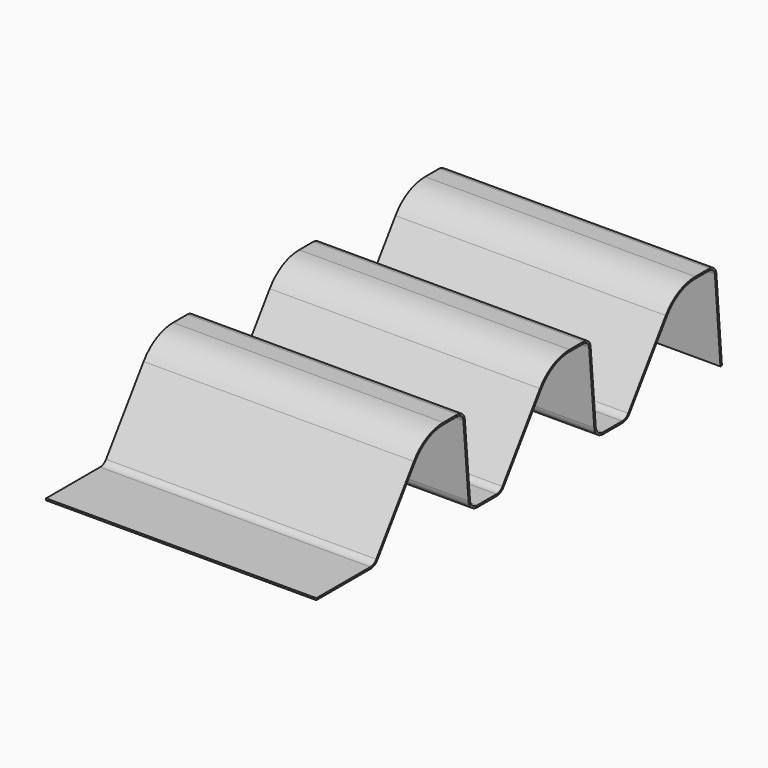
from build123d import *

# Parameters (mm, degrees)
F1_DEPTH      = 300
F1_DEPTH_BACK = 300


with BuildPart() as f1:
    # F0 (on Right) → F1 (new body, two sides)
    with BuildSketch(Plane.YZ) as f1_sk:
        with BuildLine():
            Line((110.183008, 157.357644), (5.9717, 8.528471))
            ThreePointArc((5.9717, 8.528471), (-1.176369, 2.259783), (-10.411341, 0))
            Line((-10.411341, 0), (-160.408616, 0))
            Line((-160.408616, 0), (-160.411341, -4))
            Line((-160.411341, -4), (-10.411341, -4))
            ThreePointArc((-10.411341, -4), (0.670626, -1.28826), (9.248308, 6.234166))
            Line((9.248308, 6.234166), (113.459616, 155.063338))
            ThreePointArc((113.459616, 155.063338), (147.770346, 185.15304), (192.098213, 196))
            Line((192.098213, 196), (231.673377, 196))
            ThreePointArc((231.673377, 196), (242.48282, 191.796437), (247.612492, 181.394492))
            Line((247.612492, 181.394492), (261.915687, 17.908216))
            ThreePointArc((261.915687, 17.908216), (269.610202, 2.305292), (285.824377, -4.000046))
            Line((285.824377, -4.000046), (339.588671, -4.000007))
            ThreePointArc((339.588671, -4.000007), (350.670628, -1.288263), (359.248303, 6.234158))
            Line((359.248303, 6.234158), (463.459616, 155.063338))
            ThreePointArc((463.459616, 155.063338), (497.770346, 185.15304), (542.098213, 196))
            Line((542.098213, 196), (581.673377, 196))
            ThreePointArc((581.673377, 196), (591.80723, 192.05916), (596.616297, 182.307336))
            Line((596.616297, 182.307336), (610.919489, 18.821106))
            ThreePointArc((610.919489, 18.821106), (618.613997, 3.218188), (634.828161, -3.087156))
            Line((634.828161, -3.087156), (688.592464, -3.087156))
            ThreePointArc((688.592464, -3.087156), (699.674431, -0.375416), (708.252113, 7.14701))
            Line((708.252113, 7.14701), (812.463422, 155.976182))
            ThreePointArc((812.463422, 155.976182), (846.774151, 186.065884), (891.102018, 196.912844))
            Line((891.102018, 196.912844), (930.677182, 196.912844))
            ThreePointArc((930.677182, 196.912844), (940.810305, 192.972673), (945.61993, 183.222154))
            Line((945.61993, 183.222154), (961.032927, -3.087156))
            Line((961.032927, -3.087156), (965.046592, -3.087156))
            Line((965.046592, -3.087156), (949.605558, 183.561051))
            ThreePointArc((949.605558, 183.561051), (943.516264, 195.918485), (930.677182, 200.912844))
            Line((930.677182, 200.912844), (891.102018, 200.912844))
            ThreePointArc((891.102018, 200.912844), (844.927157, 189.613928), (809.186814, 158.270488))
            Line((809.186814, 158.270488), (704.975505, 9.441316))
            ThreePointArc((704.975505, 9.441316), (697.827437, 3.172628), (688.592464, 0.912844))
            Line((688.592464, 0.912844), (634.828161, 0.912844))
            ThreePointArc((634.828161, 0.912844), (621.316357, 6.167298), (614.904268, 19.169729))
            Line((614.904268, 19.169729), (600.601076, 182.655959))
            ThreePointArc((600.601076, 182.655959), (594.50959, 195.008269), (581.673377, 200))
            Line((581.673377, 200), (542.098213, 200))
            ThreePointArc((542.098213, 200), (495.923351, 188.701083), (460.183008, 157.357644))
            Line((460.183008, 157.357644), (355.971695, 8.528464))
            ThreePointArc((355.971695, 8.528464), (348.823632, 2.259779), (339.588668, -7e-06))
            Line((339.588668, -7e-06), (285.824374, -4.6e-05))
            ThreePointArc((285.824374, -4.6e-05), (272.312561, 5.254403), (265.900466, 18.256839))
            Line((265.900466, 18.256839), (251.59727, 181.743115))
            ThreePointArc((251.59727, 181.743115), (245.185181, 194.745547), (231.673377, 200))
            Line((231.673377, 200), (192.098213, 200))
            ThreePointArc((192.098213, 200), (145.923351, 188.701083), (110.183008, 157.357644))
        make_face()
    extrude(amount=F1_DEPTH)
    extrude(f1_sk.sketch, amount=-F1_DEPTH_BACK)


solid = f1.part
